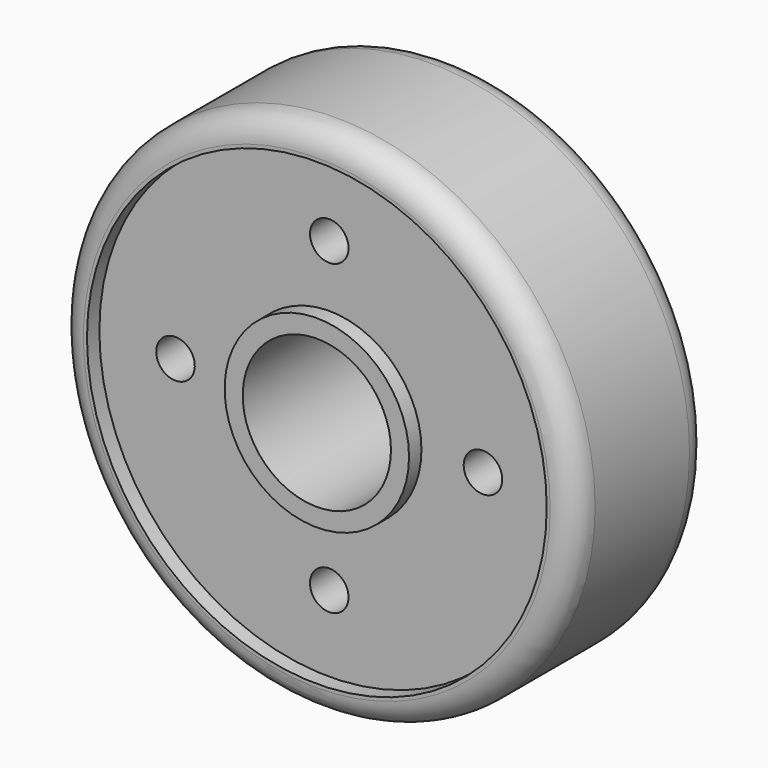
from build123d import *

# Parameters (mm, degrees)
F0_R     = 7.1388147771
F0_R_2   = 5.738815
F1_DEPTH = 6.5
F0_R_3   = 20
F0_R_4   = 17.7999995649
F2_DEPTH = 5.3
F3_R     = 1.9313708499
F4_R     = 1.4920329347
F5_DEPTH = 12.5
F6_COUNT = 4


with BuildPart() as f1:
    # F0 (on Front) → F1 (new body, symmetric)
    with BuildSketch(Plane.XZ):
        Circle(F0_R)
        Circle(F0_R_2, mode=Mode.SUBTRACT)
    extrude(amount=F1_DEPTH, both=True)


with BuildPart() as f1b:
    # F0 (on Front) → F1, piece 2 (new body, symmetric)
    with BuildSketch(Plane.XZ):
        Circle(F0_R_3)
        Circle(F0_R_4, mode=Mode.SUBTRACT)
    extrude(amount=F1_DEPTH, both=True)

    # F3
    f3_edges = [f1b.edges().sort_by_distance(p)[0] for p in [
        (-20, -6.5, 0),
        (-20, 6.5, 0),
    ]]
    fillet(f3_edges, radius=F3_R)


with BuildPart() as f2:
    # F0 (on Front) → F2 (new body, symmetric)
    with BuildSketch(Plane.XZ):
        Circle(F0_R_4)
        Circle(F0_R, mode=Mode.SUBTRACT)
    extrude(amount=F2_DEPTH, both=True)

    # F4 (on face) → F5 (cut, symmetric)
    with BuildSketch(Plane.XZ.offset(6.5)):
        with Locations((0, 11.9037220751)):
            Circle(F4_R)
    f5 = extrude(amount=F5_DEPTH, both=True, mode=Mode.SUBTRACT)

    # F6: F5 ×4 about axis
    f6_axis = Axis((0, 0, 0), (0, 1, 0))
    for i in range(1, F6_COUNT):
        add(f5.rotate(f6_axis, i * 360 / F6_COUNT), mode=Mode.SUBTRACT)


solid = Compound([f1.part, f1b.part, f2.part])
